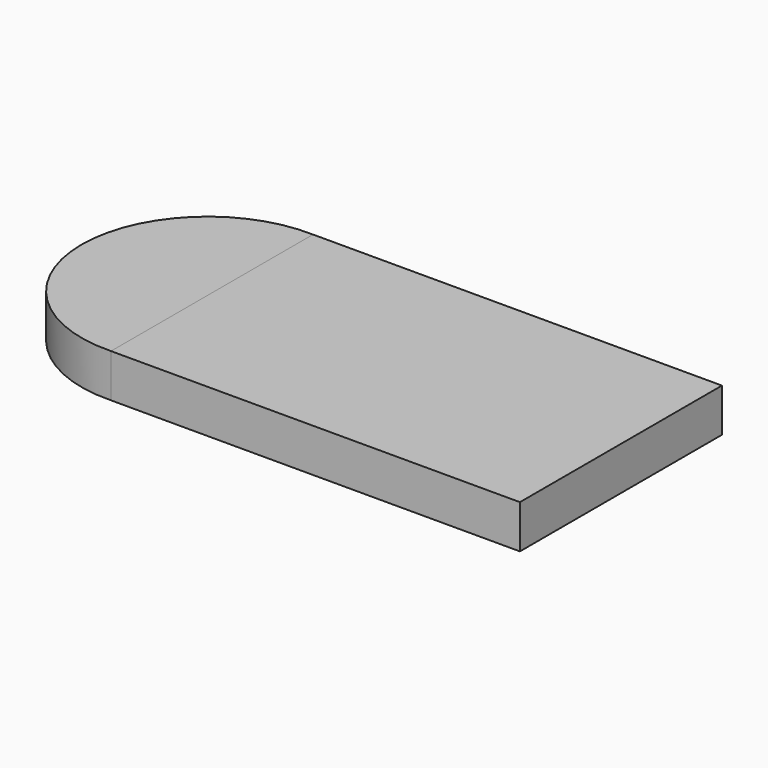
from build123d import *

# Parameters (mm, degrees)
F3_DEPTH = 25.4
F0_W     = 239.5271062851
F0_H     = 147.9100286961


with BuildPart() as f3:
    # F1 (on face) → F3 (new body)
    with BuildSketch(Plane.XY):
        with BuildLine():
            ThreePointArc((-119.7635531425, 73.9138036714), (-69.089071119, 51.4050164222), (-48.3027073577, 0))
            ThreePointArc((-48.3027073577, 0), (-69.089071119, -51.4050164222), (-119.7635531425, -73.9138036714))
            Line((-119.7635531425, -73.9138036714), (-119.7635531425, -73.955014348))
            Line((-119.7635531425, -73.955014348), (119.7635531425, -73.955014348))
            Line((119.7635531425, -73.955014348), (119.7635531425, 73.955014348))
            Line((119.7635531425, 73.955014348), (-119.7635531425, 73.955014348))
            Line((-119.7635531425, 73.955014348), (-119.7635531425, 73.9138036714))
        make_face()
    extrude(amount=F3_DEPTH)


with BuildPart() as f3b:
    # F1 (on face) → F3, piece 2 (new body)
    with BuildSketch(Plane.XY):
        with BuildLine():
            Line((-119.7635531425, -73.9138036714), (-119.7635531425, 73.9138036714))
            ThreePointArc((-119.7635531425, 73.9138036714), (-196.2145146891, 0), (-119.7635531425, -73.9138036714))
        make_face()
    extrude(amount=F3_DEPTH)


with BuildPart() as f3c:
    # F0 (on Top) → F3, piece 3 (new body)
    with BuildSketch(Plane.XY):
        Rectangle(F0_W, F0_H)
    extrude(amount=F3_DEPTH)


solid = Compound([f3.part, f3b.part, f3c.part])
